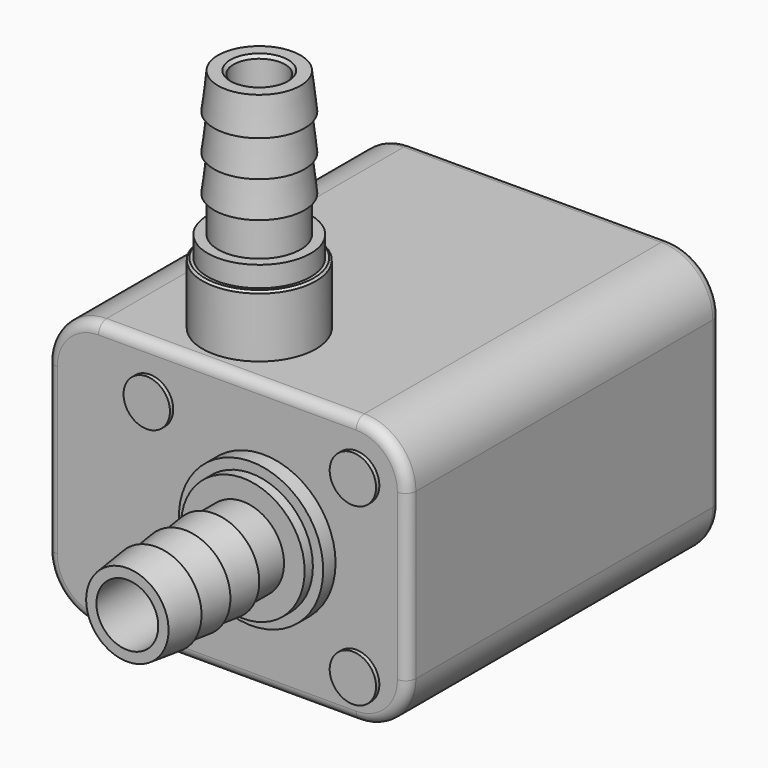
from build123d import *

# Parameters (mm, degrees)
F0_W      = 35
F0_H      = 38
F1_DEPTH  = 26
F2_R      = 5.5
F2_R_2    = 2.75
F3_DEPTH  = 6
F4_R      = 5
F4_R_2    = 2.75
F5_DEPTH  = 2
F9_SIZE   = 0.3
F10_SIZE  = 0.2
F11_R     = 5
F12_R     = 1
F13_R     = 7
F13_R_2   = 3
F14_DEPTH = 1.5
F15_R     = 6
F15_R_2   = 3
F16_DEPTH = 1
F20_R     = 2.25
F21_DEPTH = 0.4
F22_R     = 2.5
F23_DEPTH = 1


with BuildPart() as f1:
    # F0 (on Top) → F1 (new body)
    with BuildSketch(Plane.XY):
        Rectangle(F0_W, F0_H)
    extrude(amount=F1_DEPTH)

    # F2 (on face) → F3 (join)
    with BuildSketch(Plane.XY.offset(26)):
        with Locations((-2.5, -12)):
            Circle(F2_R)
        with Locations((-2.5, -12)):
            Circle(F2_R_2, mode=Mode.SUBTRACT)
    extrude(amount=F3_DEPTH)

    # F4 (on face) → F5 (join)
    with BuildSketch(Plane.XY.offset(32)):
        with Locations((-2.5, -12)):
            Circle(F4_R)
        with Locations((-2.5, -12)):
            Circle(F4_R_2, mode=Mode.SUBTRACT)
    extrude(amount=F5_DEPTH)

    # F7 (on offset) → F8 (revolve)
    with BuildSketch(Plane.XZ.offset(12)):
        Polygon((-6.5000001341, 37.5), (-6.5000001341, 34), (-5.0000001341, 34), (-5.0000001341, 48), (-6.5000001341, 48), (-6.9000001341, 44.5), (-6.5000001341, 44.5), (-6.9000001341, 41), (-6.5000001341, 41), (-6.9000001341, 37.5), align=None)
    revolve(axis=Axis((-2.5, -12, 43.5864264173), (0, 0, 1)))

    # F9
    f9_edges = [f1.edges().sort_by_distance(p)[0] for p in [
        (0, -12, 48),
    ]]
    chamfer(f9_edges, length=F9_SIZE)

    # F10
    f10_edges = [f1.edges().sort_by_distance(p)[0] for p in [
        (-8, -12, 32),
    ]]
    chamfer(f10_edges, length=F10_SIZE)

    # F11
    f11_edges = [f1.edges().sort_by_distance(p)[0] for p in [
        (-17.5, 0, 26),
        (-17.5, 0, 0),
        (17.5, 0, 26),
        (17.5, 0, 0),
    ]]
    fillet(f11_edges, radius=F11_R)

    # F12
    f12_edges = [f1.edges().sort_by_distance(p)[0] for p in [
        (0, 19, 26),
        (0, -19, 26),
    ]]
    fillet(f12_edges, radius=F12_R)

    # F13 (on face) → F14 (join)
    with BuildSketch(Plane.XZ.offset(19)):
        with Locations((3.5, 13)):
            Circle(F13_R)
        with Locations((3.5, 13)):
            Circle(F13_R_2, mode=Mode.SUBTRACT)
    extrude(amount=F14_DEPTH)

    # F15 (on face) → F16 (join)
    with BuildSketch(Plane.XZ.offset(20.5)):
        with Locations((3.5, 13)):
            Circle(F15_R)
        with Locations((3.5, 13)):
            Circle(F15_R_2, mode=Mode.SUBTRACT)
    extrude(amount=F16_DEPTH)

    # F18 (on offset) → F19 (revolve)
    with BuildSketch(Plane.XY.offset(13)):
        Polygon((0.5, -35.5), (0.5, -21.5), (-0.5, -21.5), (-0.5, -25), (-0.9, -25), (-0.5, -28.5), (-0.9, -28.5), (-0.5, -32), (-0.9, -32), (-0.5, -35.5), align=None)
    revolve(axis=Axis((3.5, -28.1351610951, 13), (0, -1, 0)))

    # F20 (on face) → F21 (join)
    with BuildSketch(Plane.XZ.offset(19)):
        with Locations((-7.5, 21)):
            Circle(F20_R)
        with Locations((12.5, 21)):
            Circle(F20_R)
        with Locations((-7.5, 4)):
            Circle(F20_R)
        with Locations((12.5, 4)):
            Circle(F20_R)
    extrude(amount=F21_DEPTH)

    # F22 (on face) → F23 (cut)
    with BuildSketch(Plane(origin=(0, 19, 0), x_dir=(-1, 0, 0), z_dir=(0, 1, 0))):
        with Locations((12.3899085447, 13)):
            Circle(F22_R)
    extrude(amount=-F23_DEPTH, mode=Mode.SUBTRACT)


solid = f1.part
